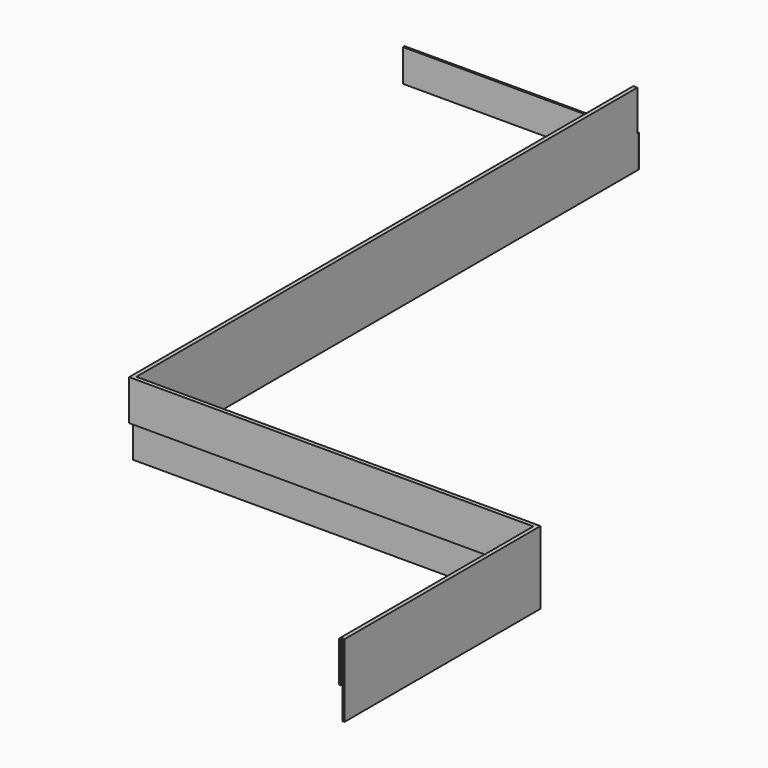
from build123d import *

# Parameters (mm, degrees)
F1_DEPTH  = 25
F0_W      = 4994
F0_H      = 400
F2_DEPTH  = 25
F3_W      = 2978
F3_H      = 500
F3_W_2    = 25
F4_DEPTH  = 25
F5_DEPTH  = 25
F6_W      = 7737
F6_H      = 500
F6_H_2    = 400
F7_DEPTH  = 25
F8_DEPTH  = 25
F9_W      = 25
F9_H      = 400
F10_DEPTH = 25


with BuildPart() as f1:
    # F0 (on Front) → F1 (new body)
    with BuildSketch(Plane.XZ):
        Polygon((-6154.5335620582, 738.3967787384), (-6129.5335620582, 738.3967787384), (-1135.5335620582, 738.3967787384), (-1135.5335620582, 1238.3967787384), (-6154.5335620582, 1238.3967787384), align=None)
    extrude(amount=F1_DEPTH)

    # F0 (on Front) → F2 (join)
    with BuildSketch(Plane.XZ):
        with Locations((-3632.5335620582, 538.3967787384)):
            Rectangle(F0_W, F0_H)
        Polygon((-6154.5335620582, 738.3967787384), (-6129.5335620582, 738.3967787384), (-1135.5335620582, 738.3967787384), (-1135.5335620582, 1238.3967787384), (-6154.5335620582, 1238.3967787384), align=None)
    extrude(amount=-F2_DEPTH)

    # F3 (on face) → F4 (join)
    with BuildSketch(Plane.YZ.offset(-1135.5335620582)):
        with Locations((-1514, 988.3967787384)):
            Rectangle(F3_W, F3_H)
        with Locations((-3015.5, 988.3967787384)):
            Rectangle(F3_W_2, F3_H)
    extrude(amount=-F4_DEPTH)

    # F3 (on face) → F5 (join)
    with BuildSketch(Plane.YZ.offset(-1135.5335620582)):
        with Locations((-1514, 988.3967787384)):
            Rectangle(F3_W, F3_H)
        Polygon((-3003, 338.3967787384), (0, 338.3967787384), (0, 738.3967787384), (-25, 738.3967787384), (-3003, 738.3967787384), align=None)
        Polygon((0, 338.3967787384), (25, 338.3967787384), (25, 1238.3967787384), (-25, 1238.3967787384), (-25, 738.3967787384), (0, 738.3967787384), align=None)
    extrude(amount=F5_DEPTH)

    # F6 (on face) → F7 (join)
    with BuildSketch(Plane(origin=(-6129.5335620582, 0, 0), x_dir=(0, -1, 0), z_dir=(-1, 0, 0))):
        with Locations((-3893.5, 988.3967787384)):
            Rectangle(F6_W, F6_H)
        with Locations((-3893.5, 538.3967787384)):
            Rectangle(F6_W, F6_H_2)
    extrude(amount=-F7_DEPTH)

    # F6 (on face) → F8 (join)
    with BuildSketch(Plane(origin=(-6129.5335620582, 0, 0), x_dir=(0, -1, 0), z_dir=(-1, 0, 0))):
        with Locations((-3893.5, 988.3967787384)):
            Rectangle(F6_W, F6_H)
    extrude(amount=F8_DEPTH)


with BuildPart() as f10:
    # F9 (on face) → F10 (new body)
    with BuildSketch(Plane(origin=(0, 7762, 0), x_dir=(-1, 0, 0), z_dir=(0, 1, 0))):
        Polygon((6129.5335620582, 738.3967787384), (6129.5335620582, 338.3967787384), (9001.5335620582, 338.3967787384), (9001.5335620582, 738.3967787384), (6154.5335620582, 738.3967787384), align=None)
        with Locations((6117.0335620582, 538.3967787384)):
            Rectangle(F9_W, F9_H)
    extrude(amount=F10_DEPTH)


solid = Compound([f1.part, f10.part])
